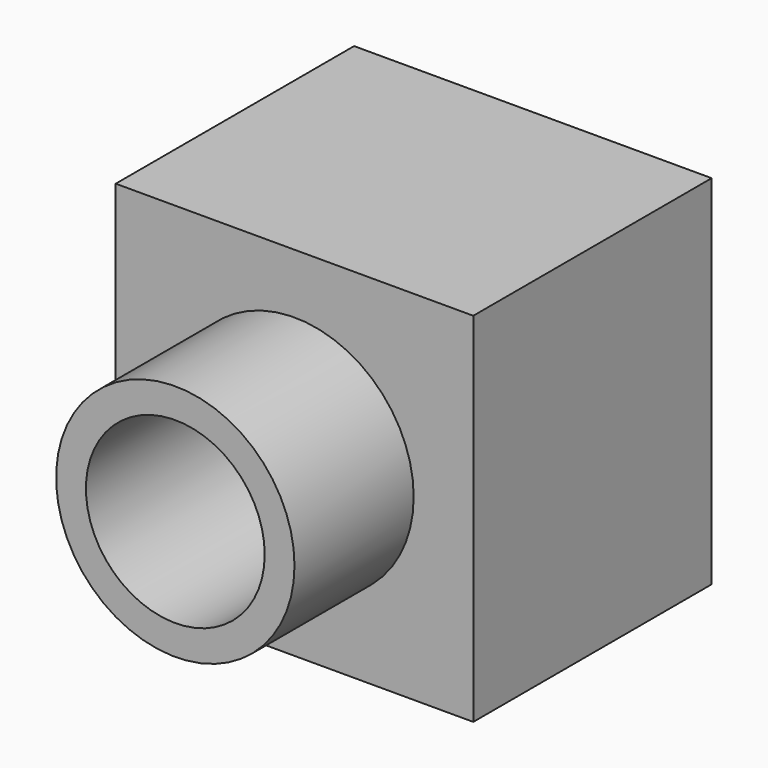
from build123d import *

# Parameters (mm, degrees)
F0_W     = 600
F0_H     = 600
F1_DEPTH = 250
F2_R     = 200
F2_R_2   = 150
F3_DEPTH = 250
F4_R     = 150
F5_DEPTH = 1016


with BuildPart() as f1:
    # F0 (on Front) → F1 (new body, symmetric)
    with BuildSketch(Plane.XZ):
        Rectangle(F0_W, F0_H)
        Rectangle(F0_W, F0_H)
    extrude(amount=F1_DEPTH, both=True)

    # F2 (on face) → F3 (join)
    with BuildSketch(Plane.XZ.offset(250)):
        Circle(F2_R)
        Circle(F2_R_2, mode=Mode.SUBTRACT)
    extrude(amount=F3_DEPTH)

    # F4 (on face) → F5 (cut)
    with BuildSketch(Plane.XZ.offset(500)):
        Circle(F4_R)
    extrude(amount=-F5_DEPTH, mode=Mode.SUBTRACT)


solid = f1.part
